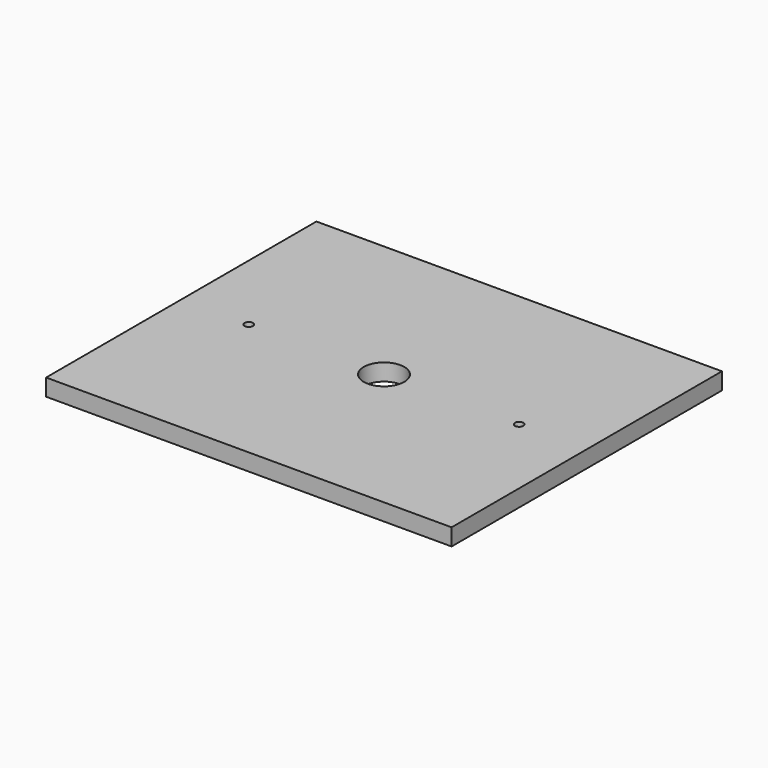
from build123d import *

# Parameters (mm, degrees)
F0_W     = 304.8
F0_H     = 254
F1_DEPTH = 6.35
F2_R     = 15.24
F3_DEPTH = 12.701
F4_R     = 3.175
F5_DEPTH = 12.701


with BuildPart() as f1:
    # F0 (on Top) → F1 (new body, symmetric)
    with BuildSketch(Plane.XY):
        Rectangle(F0_W, F0_H)
    extrude(amount=F1_DEPTH, both=True)

    # F2 (on face) → F3 (cut, through all)
    with BuildSketch(Plane.XY.offset(6.35)):
        Circle(F2_R)
    extrude(amount=-F3_DEPTH, mode=Mode.SUBTRACT)

    # F4 (on face) → F5 (cut, through all)
    with BuildSketch(Plane.XY.offset(6.35)):
        with Locations((-101.6, 0)):
            Circle(F4_R)
        with Locations((101.6, 0)):
            Circle(F4_R)
    extrude(amount=-F5_DEPTH, mode=Mode.SUBTRACT)


solid = f1.part
